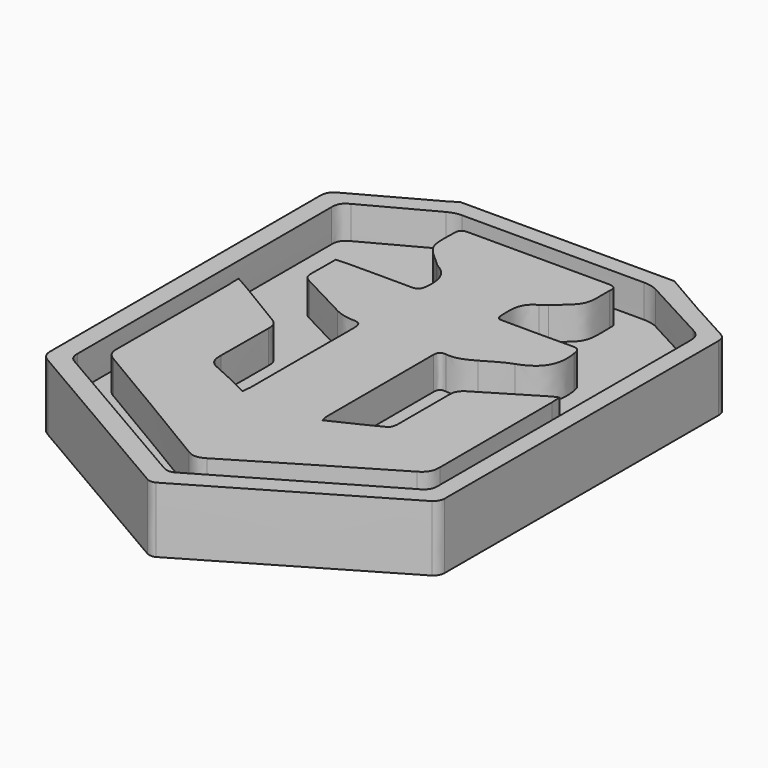
from build123d import *

# Parameters (mm, degrees)
EXTRUDE001_DEPTH = 5
EXTRUDE002_DEPTH = 12
EXTRUDE003_DEPTH = 10
EXTRUDE_DEPTH    = 10


with BuildPart() as extrude001:
    # Path002 → Extrude001 (new body)
    with BuildSketch(Plane(origin=(119.083667, -82.236467, 0), x_dir=(0, 1, 0), z_dir=(0, 0, 1))):
        with BuildLine():
            add(Edge.make_bspline(
                [(4.399578, -27.417889), (12.386467, -27.417889), (20.373356, -27.389667), (28.388467, -27.446111)],
                knots=[0, 0, 0, 0, 1, 1, 1, 1], degree=3))
            add(Edge.make_bspline(
                [(28.388467, -27.446111), (29.602023, -27.446111), (30.251134, -27.051), (30.787356, -26.006778)],
                knots=[0, 0, 0, 0, 1, 1, 1, 1], degree=3))
            add(Edge.make_bspline(
                [(30.787356, -26.006778), (32.537134, -22.620111), (34.428023, -19.318111), (36.206023, -15.959667)],
                knots=[0, 0, 0, 0, 1, 1, 1, 1], degree=3))
            add(Edge.make_bspline(
                [(36.206023, -15.959667), (36.544689, -15.338778), (36.714023, -14.548556), (36.714023, -13.814778)],
                knots=[0, 0, 0, 0, 1, 1, 1, 1], degree=3))
            add(Edge.make_bspline(
                [(36.714023, -13.814778), (36.742245, -4.557889), (36.742245, 4.699), (36.714023, 13.984111)],
                knots=[0, 0, 0, 0, 1, 1, 1, 1], degree=3))
            add(Edge.make_bspline(
                [(36.714023, 13.984111), (36.714023, 14.661444), (36.516467, 15.395222), (36.206023, 15.987889)],
                knots=[0, 0, 0, 0, 1, 1, 1, 1], degree=3))
            add(Edge.make_bspline(
                [(36.206023, 15.987889), (34.3998, 19.402778), (32.508911, 22.761222), (30.730911, 26.176111)],
                knots=[0, 0, 0, 0, 1, 1, 1, 1], degree=3))
            add(Edge.make_bspline(
                [(30.730911, 26.176111), (30.251134, 27.079222), (29.714911, 27.446111), (28.670689, 27.446111)],
                knots=[0, 0, 0, 0, 1, 1, 1, 1], degree=3))
            add(Edge.make_bspline(
                [(28.670689, 27.446111), (12.499356, 27.417889), (-3.671977, 27.417889), (-19.843311, 27.446111)],
                knots=[0, 0, 0, 0, 1, 1, 1, 1], degree=3))
            add(Edge.make_bspline(
                [(-19.843311, 27.446111), (-20.689977, 27.446111), (-21.197977, 27.163889), (-21.621311, 26.401889)],
                knots=[0, 0, 0, 0, 1, 1, 1, 1], degree=3))
            add(Edge.make_bspline(
                [(-21.621311, 26.401889), (-26.503755, 17.935222), (-31.414422, 9.468556), (-36.353311, 1.030111)],
                knots=[0, 0, 0, 0, 1, 1, 1, 1], degree=3))
            add(Edge.make_bspline(
                [(-36.353311, 1.030111), (-36.804866, 0.268111), (-36.776644, -0.268111), (-36.325089, -1.001889)],
                knots=[0, 0, 0, 0, 1, 1, 1, 1], degree=3))
            add(Edge.make_bspline(
                [(-36.325089, -1.001889), (-31.414422, -9.383889), (-26.503755, -17.794111), (-21.649533, -26.232556)],
                knots=[0, 0, 0, 0, 1, 1, 1, 1], degree=3))
            add(Edge.make_bspline(
                [(-21.649533, -26.232556), (-21.113311, -27.135667), (-20.548866, -27.446111), (-19.532866, -27.417889)],
                knots=[0, 0, 0, 0, 1, 1, 1, 1], degree=3))
            add(Edge.make_bspline(
                [(-19.532866, -27.417889), (-11.5742, -27.389667), (-3.587311, -27.417889), (4.399578, -27.417889)],
                knots=[0, 0, 0, 0, 1, 1, 1, 1], degree=3))
        make_face()
    extrude(amount=EXTRUDE001_DEPTH)


with BuildPart() as extrude002:
    # Path002 → Extrude002 (new body)
    with BuildSketch(Plane(origin=(119.083667, -82.236467, 0), x_dir=(0, 1, 0), z_dir=(0, 0, 1))):
        with BuildLine():
            add(Edge.make_bspline(
                [(4.399578, -27.417889), (12.386467, -27.417889), (20.373356, -27.389667), (28.388467, -27.446111)],
                knots=[0, 0, 0, 0, 1, 1, 1, 1], degree=3))
            add(Edge.make_bspline(
                [(28.388467, -27.446111), (29.602023, -27.446111), (30.251134, -27.051), (30.787356, -26.006778)],
                knots=[0, 0, 0, 0, 1, 1, 1, 1], degree=3))
            add(Edge.make_bspline(
                [(30.787356, -26.006778), (32.537134, -22.620111), (34.428023, -19.318111), (36.206023, -15.959667)],
                knots=[0, 0, 0, 0, 1, 1, 1, 1], degree=3))
            add(Edge.make_bspline(
                [(36.206023, -15.959667), (36.544689, -15.338778), (36.714023, -14.548556), (36.714023, -13.814778)],
                knots=[0, 0, 0, 0, 1, 1, 1, 1], degree=3))
            add(Edge.make_bspline(
                [(36.714023, -13.814778), (36.742245, -4.557889), (36.742245, 4.699), (36.714023, 13.984111)],
                knots=[0, 0, 0, 0, 1, 1, 1, 1], degree=3))
            add(Edge.make_bspline(
                [(36.714023, 13.984111), (36.714023, 14.661444), (36.516467, 15.395222), (36.206023, 15.987889)],
                knots=[0, 0, 0, 0, 1, 1, 1, 1], degree=3))
            add(Edge.make_bspline(
                [(36.206023, 15.987889), (34.3998, 19.402778), (32.508911, 22.761222), (30.730911, 26.176111)],
                knots=[0, 0, 0, 0, 1, 1, 1, 1], degree=3))
            add(Edge.make_bspline(
                [(30.730911, 26.176111), (30.251134, 27.079222), (29.714911, 27.446111), (28.670689, 27.446111)],
                knots=[0, 0, 0, 0, 1, 1, 1, 1], degree=3))
            add(Edge.make_bspline(
                [(28.670689, 27.446111), (12.499356, 27.417889), (-3.671977, 27.417889), (-19.843311, 27.446111)],
                knots=[0, 0, 0, 0, 1, 1, 1, 1], degree=3))
            add(Edge.make_bspline(
                [(-19.843311, 27.446111), (-20.689977, 27.446111), (-21.197977, 27.163889), (-21.621311, 26.401889)],
                knots=[0, 0, 0, 0, 1, 1, 1, 1], degree=3))
            add(Edge.make_bspline(
                [(-21.621311, 26.401889), (-26.503755, 17.935222), (-31.414422, 9.468556), (-36.353311, 1.030111)],
                knots=[0, 0, 0, 0, 1, 1, 1, 1], degree=3))
            add(Edge.make_bspline(
                [(-36.353311, 1.030111), (-36.804866, 0.268111), (-36.776644, -0.268111), (-36.325089, -1.001889)],
                knots=[0, 0, 0, 0, 1, 1, 1, 1], degree=3))
            add(Edge.make_bspline(
                [(-36.325089, -1.001889), (-31.414422, -9.383889), (-26.503755, -17.794111), (-21.649533, -26.232556)],
                knots=[0, 0, 0, 0, 1, 1, 1, 1], degree=3))
            add(Edge.make_bspline(
                [(-21.649533, -26.232556), (-21.113311, -27.135667), (-20.548866, -27.446111), (-19.532866, -27.417889)],
                knots=[0, 0, 0, 0, 1, 1, 1, 1], degree=3))
            add(Edge.make_bspline(
                [(-19.532866, -27.417889), (-11.5742, -27.389667), (-3.587311, -27.417889), (4.399578, -27.417889)],
                knots=[0, 0, 0, 0, 1, 1, 1, 1], degree=3))
        make_face()
    extrude(amount=EXTRUDE002_DEPTH)


with BuildPart() as extrude002_1:
    # Extrude002 placement: moved
    add(extrude002.part.moved(Location((0, 0, 5))))


with BuildPart() as cut:
    # Path001 → Extrude003 (new body)
    with BuildSketch(Plane(origin=(118.970778, -82.657775, 0), x_dir=(0, -1, 0), z_dir=(0, 0, -1))):
        with BuildLine():
            add(Edge.make_bspline(
                [(-39.67533, -16.495889), (-38.40533, -18.669), (-37.13533, -20.842111), (-35.893552, -23.043444)],
                knots=[0, 0, 0, 0, 1, 1, 1, 1], degree=3))
            add(Edge.make_bspline(
                [(-35.893552, -23.043444), (-34.736441, -25.075444), (-33.607552, -27.163889), (-32.506886, -29.224111)],
                knots=[0, 0, 0, 0, 1, 1, 1, 1], degree=3))
            add(Edge.make_bspline(
                [(-32.506886, -29.224111), (-32.139997, -29.901444), (-31.744886, -30.240111), (-30.898219, -30.240111)],
                knots=[0, 0, 0, 0, 1, 1, 1, 1], degree=3))
            add(Edge.make_bspline(
                [(-30.898219, -30.240111), (-13.51333, -30.211889), (3.899781, -30.211889), (21.28467, -30.183667)],
                knots=[0, 0, 0, 0, 1, 1, 1, 1], degree=3))
            add(Edge.make_bspline(
                [(21.28467, -30.183667), (21.764448, -30.183667), (22.470003, -29.816778), (22.695781, -29.421667)],
                knots=[0, 0, 0, 0, 1, 1, 1, 1], degree=3))
            add(Edge.make_bspline(
                [(22.695781, -29.421667), (28.340225, -19.882556), (33.956448, -10.287), (39.516225, -0.719667)],
                knots=[0, 0, 0, 0, 1, 1, 1, 1], degree=3))
            add(Edge.make_bspline(
                [(39.516225, -0.719667), (39.713781, -0.381), (39.657337, 0.268111), (39.459781, 0.606778)],
                knots=[0, 0, 0, 0, 1, 1, 1, 1], degree=3))
            add(Edge.make_bspline(
                [(39.459781, 0.606778), (33.956448, 10.089444), (28.424892, 19.515667), (22.921559, 28.998333)],
                knots=[0, 0, 0, 0, 1, 1, 1, 1], degree=3))
            add(Edge.make_bspline(
                [(22.921559, 28.998333), (22.413559, 29.873222), (21.905559, 30.240111), (20.861337, 30.240111)],
                knots=[0, 0, 0, 0, 1, 1, 1, 1], degree=3))
            add(Edge.make_bspline(
                [(20.861337, 30.240111), (3.75867, 30.211889), (-13.372219, 30.211889), (-30.474886, 30.240111)],
                knots=[0, 0, 0, 0, 1, 1, 1, 1], degree=3))
            add(Edge.make_bspline(
                [(-30.474886, 30.240111), (-31.519108, 30.240111), (-32.05533, 29.873222), (-32.535108, 28.970111)],
                knots=[0, 0, 0, 0, 1, 1, 1, 1], degree=3))
            add(Edge.make_bspline(
                [(-32.535108, 28.970111), (-34.623552, 25.075444), (-36.768441, 21.209), (-38.91333, 17.342556)],
                knots=[0, 0, 0, 0, 1, 1, 1, 1], degree=3))
            add(Edge.make_bspline(
                [(-38.91333, 17.342556), (-39.139108, 16.947444), (-39.42133, 16.580556), (-39.67533, 16.185444)],
                knots=[0, 0, 0, 0, 1, 1, 1, 1], degree=3))
            add(Edge.make_bspline(
                [(-39.67533, 16.185444), (-39.67533, 5.319889), (-39.67533, -5.573889), (-39.67533, -16.495889)],
                knots=[0, 0, 0, 0, 1, 1, 1, 1], degree=3))
        make_face()
    extrude(amount=-EXTRUDE003_DEPTH)

    # Cut: cut Extrude002
    add(extrude002_1.part, mode=Mode.SUBTRACT)


with BuildPart() as fusion:
    # Path005 → Extrude (new body)
    with BuildSketch(Plane(origin=(119.097778, -81.254672, 0), x_dir=(0, -1, 0), z_dir=(0, 0, -1))):
        with BuildLine():
            add(Edge.make_bspline(
                [(-6.352894, 24.581556), (-5.78845, 23.593778), (-5.393338, 22.86), (-4.970005, 22.154444)],
                knots=[0, 0, 0, 0, 1, 1, 1, 1], degree=3))
            add(Edge.make_bspline(
                [(-4.970005, 22.154444), (-3.50245, 19.727333), (-2.034894, 17.356667), (-0.595561, 14.901333)],
                knots=[0, 0, 0, 0, 1, 1, 1, 1], degree=3))
            add(Edge.make_bspline(
                [(-0.595561, 14.901333), (-0.115783, 14.054667), (0.476884, 13.744222), (1.436439, 13.772444)],
                knots=[0, 0, 0, 0, 1, 1, 1, 1], degree=3))
            add(Edge.make_bspline(
                [(1.436439, 13.772444), (4.456217, 13.828889), (7.447773, 13.716), (10.46755, 13.828889)],
                knots=[0, 0, 0, 0, 1, 1, 1, 1], degree=3))
            add(Edge.make_bspline(
                [(10.46755, 13.828889), (11.822217, 13.885333), (12.612439, 13.490222), (13.148662, 12.192)],
                knots=[0, 0, 0, 0, 1, 1, 1, 1], degree=3))
            add(Edge.make_bspline(
                [(13.148662, 12.192), (13.967106, 10.16), (15.011328, 8.212667), (16.05555, 6.039556)],
                knots=[0, 0, 0, 0, 1, 1, 1, 1], degree=3))
            add(Edge.make_bspline(
                [(16.05555, 6.039556), (15.406439, 5.983111), (14.954884, 5.926667), (14.503328, 5.926667)],
                knots=[0, 0, 0, 0, 1, 1, 1, 1], degree=3))
            add(Edge.make_bspline(
                [(14.503328, 5.926667), (8.012217, 5.926667), (1.521106, 5.926667), (-4.970005, 5.898444)],
                knots=[0, 0, 0, 0, 1, 1, 1, 1], degree=3))
            add(Edge.make_bspline(
                [(-4.970005, 5.898444), (-6.098894, 5.898444), (-6.522227, 6.152444), (-6.522227, 7.366)],
                knots=[0, 0, 0, 0, 1, 1, 1, 1], degree=3))
            add(Edge.make_bspline(
                [(-6.522227, 7.366), (-6.522227, 8.297333), (-6.80445, 9.313333), (-7.227783, 10.16)],
                knots=[0, 0, 0, 0, 1, 1, 1, 1], degree=3))
            add(Edge.make_bspline(
                [(-7.227783, 10.16), (-8.469561, 12.7), (-9.880672, 15.127111), (-11.150672, 17.638889)],
                knots=[0, 0, 0, 0, 1, 1, 1, 1], degree=3))
            add(Edge.make_bspline(
                [(-11.150672, 17.638889), (-11.517561, 18.372667), (-11.969116, 18.654889), (-12.787561, 18.626667)],
                knots=[0, 0, 0, 0, 1, 1, 1, 1], degree=3))
            add(Edge.make_bspline(
                [(-12.787561, 18.626667), (-14.283338, 18.570222), (-15.779116, 18.598444), (-17.387783, 18.598444)],
                knots=[0, 0, 0, 0, 1, 1, 1, 1], degree=3))
            add(Edge.make_bspline(
                [(-17.387783, 18.598444), (-17.416005, 18.005778), (-17.47245, 17.554222), (-17.47245, 17.074444)],
                knots=[0, 0, 0, 0, 1, 1, 1, 1], degree=3))
            add(Edge.make_bspline(
                [(-17.47245, 17.074444), (-17.47245, 13.772444), (-17.528894, 10.498667), (-17.47245, 7.196667)],
                knots=[0, 0, 0, 0, 1, 1, 1, 1], degree=3))
            add(Edge.make_bspline(
                [(-17.47245, 7.196667), (-17.444227, 6.124222), (-17.867561, 5.926667), (-18.855338, 5.813778)],
                knots=[0, 0, 0, 0, 1, 1, 1, 1], degree=3))
            add(Edge.make_bspline(
                [(-18.855338, 5.813778), (-20.972005, 5.616222), (-22.637116, 6.096), (-23.709561, 8.043333)],
                knots=[0, 0, 0, 0, 1, 1, 1, 1], degree=3))
            add(Edge.make_bspline(
                [(-23.709561, 8.043333), (-23.850672, 8.297333), (-24.07645, 8.494889), (-24.245783, 8.692444)],
                knots=[0, 0, 0, 0, 1, 1, 1, 1], degree=3))
            add(Edge.make_bspline(
                [(-24.245783, 8.692444), (-27.152672, 12.050889), (-27.152672, 12.022667), (-31.611783, 11.881556)],
                knots=[0, 0, 0, 0, 1, 1, 1, 1], degree=3))
            add(Edge.make_bspline(
                [(-31.611783, 11.881556), (-32.486672, 11.853333), (-32.768894, 11.542889), (-32.768894, 10.724444)],
                knots=[0, 0, 0, 0, 1, 1, 1, 1], degree=3))
            add(Edge.make_bspline(
                [(-32.768894, 10.724444), (-32.740672, 3.584222), (-32.740672, -3.584222), (-32.768894, -10.724444)],
                knots=[0, 0, 0, 0, 1, 1, 1, 1], degree=3))
            add(Edge.make_bspline(
                [(-32.768894, -10.724444), (-32.768894, -11.542889), (-32.514894, -11.994444), (-31.640005, -11.881556)],
                knots=[0, 0, 0, 0, 1, 1, 1, 1], degree=3))
            add(Edge.make_bspline(
                [(-31.640005, -11.881556), (-31.583561, -11.881556), (-31.555338, -11.881556), (-31.498894, -11.881556)],
                knots=[0, 0, 0, 0, 1, 1, 1, 1], degree=3))
            add(Edge.make_bspline(
                [(-31.498894, -11.881556), (-27.011561, -11.994444), (-27.011561, -11.994444), (-24.104672, -8.494889)],
                knots=[0, 0, 0, 0, 1, 1, 1, 1], degree=3))
            add(Edge.make_bspline(
                [(-24.104672, -8.494889), (-23.850672, -8.212667), (-23.56845, -7.958667), (-23.399116, -7.62)],
                knots=[0, 0, 0, 0, 1, 1, 1, 1], degree=3))
            add(Edge.make_bspline(
                [(-23.399116, -7.62), (-22.270227, -5.475111), (-20.26645, -5.729111), (-18.347338, -5.813778)],
                knots=[0, 0, 0, 0, 1, 1, 1, 1], degree=3))
            add(Edge.make_bspline(
                [(-18.347338, -5.813778), (-17.416005, -5.842), (-17.528894, -6.519333), (-17.528894, -7.140222)],
                knots=[0, 0, 0, 0, 1, 1, 1, 1], degree=3))
            add(Edge.make_bspline(
                [(-17.528894, -7.140222), (-17.528894, -10.526889), (-17.500672, -13.913556), (-17.557116, -17.300222)],
                knots=[0, 0, 0, 0, 1, 1, 1, 1], degree=3))
            add(Edge.make_bspline(
                [(-17.557116, -17.300222), (-17.585338, -18.344444), (-17.21845, -18.542), (-16.20245, -18.711333)],
                knots=[0, 0, 0, 0, 1, 1, 1, 1], degree=3))
            add(Edge.make_bspline(
                [(-16.20245, -18.711333), (-12.872227, -19.275778), (-10.812005, -18.090444), (-9.711338, -14.873111)],
                knots=[0, 0, 0, 0, 1, 1, 1, 1], degree=3))
            add(Edge.make_bspline(
                [(-9.711338, -14.873111), (-9.231561, -13.462), (-8.356672, -12.192), (-7.622894, -10.893778)],
                knots=[0, 0, 0, 0, 1, 1, 1, 1], degree=3))
            add(Edge.make_bspline(
                [(-7.622894, -10.893778), (-6.917338, -9.652), (-6.324672, -8.410222), (-6.522227, -6.914444)],
                knots=[0, 0, 0, 0, 1, 1, 1, 1], degree=3))
            add(Edge.make_bspline(
                [(-6.522227, -6.914444), (-6.635116, -6.152444), (-6.29645, -5.813778), (-5.478005, -5.813778)],
                knots=[0, 0, 0, 0, 1, 1, 1, 1], degree=3))
            add(Edge.make_bspline(
                [(-5.478005, -5.813778), (1.295328, -5.842), (8.068662, -5.842), (14.841995, -5.842)],
                knots=[0, 0, 0, 0, 1, 1, 1, 1], degree=3))
            add(Edge.make_bspline(
                [(14.841995, -5.842), (15.152439, -5.842), (15.462884, -5.954889), (15.970884, -6.039556)],
                knots=[0, 0, 0, 0, 1, 1, 1, 1], degree=3))
            add(Edge.make_bspline(
                [(15.970884, -6.039556), (14.78555, -8.523111), (13.684884, -10.893778), (12.471328, -13.208)],
                knots=[0, 0, 0, 0, 1, 1, 1, 1], degree=3))
            add(Edge.make_bspline(
                [(12.471328, -13.208), (12.301995, -13.546667), (11.539995, -13.716), (11.031995, -13.716)],
                knots=[0, 0, 0, 0, 1, 1, 1, 1], degree=3))
            add(Edge.make_bspline(
                [(11.031995, -13.716), (7.842884, -13.744222), (4.62555, -13.744222), (1.436439, -13.716)],
                knots=[0, 0, 0, 0, 1, 1, 1, 1], degree=3))
            add(Edge.make_bspline(
                [(1.436439, -13.716), (0.420439, -13.687778), (-0.20045, -14.054667), (-0.70845, -14.957778)],
                knots=[0, 0, 0, 0, 1, 1, 1, 1], degree=3))
            add(Edge.make_bspline(
                [(-0.70845, -14.957778), (-2.345338, -17.751778), (-4.066894, -20.517556), (-5.732005, -23.283333)],
                knots=[0, 0, 0, 0, 1, 1, 1, 1], degree=3))
            add(Edge.make_bspline(
                [(-5.732005, -23.283333), (-5.929561, -23.593778), (-6.04245, -23.932444), (-6.29645, -24.440444)],
                knots=[0, 0, 0, 0, 1, 1, 1, 1], degree=3))
            add(Edge.make_bspline(
                [(-6.29645, -24.440444), (-5.675561, -24.468667), (-5.224005, -24.525111), (-4.77245, -24.525111)],
                knots=[0, 0, 0, 0, 1, 1, 1, 1], degree=3))
            add(Edge.make_bspline(
                [(-4.77245, -24.525111), (2.367773, -24.553333), (9.536217, -24.525111), (16.676439, -24.581556)],
                knots=[0, 0, 0, 0, 1, 1, 1, 1], degree=3))
            add(Edge.make_bspline(
                [(16.676439, -24.581556), (17.918217, -24.581556), (18.623773, -24.214667), (19.272884, -23.142222)],
                knots=[0, 0, 0, 0, 1, 1, 1, 1], degree=3))
            add(Edge.make_bspline(
                [(19.272884, -23.142222), (23.534439, -15.889111), (27.852439, -8.664222), (32.198662, -1.467556)],
                knots=[0, 0, 0, 0, 1, 1, 1, 1], degree=3))
            add(Edge.make_bspline(
                [(32.198662, -1.467556), (32.791328, -0.479778), (32.875995, 0.282222), (32.226884, 1.326444)],
                knots=[0, 0, 0, 0, 1, 1, 1, 1], degree=3))
            add(Edge.make_bspline(
                [(32.226884, 1.326444), (27.824217, 8.607778), (23.477995, 15.917333), (19.159995, 23.255111)],
                knots=[0, 0, 0, 0, 1, 1, 1, 1], degree=3))
            add(Edge.make_bspline(
                [(19.159995, 23.255111), (18.623773, 24.186444), (18.031106, 24.553333), (16.930439, 24.553333)],
                knots=[0, 0, 0, 0, 1, 1, 1, 1], degree=3))
            add(Edge.make_bspline(
                [(16.930439, 24.553333), (9.733773, 24.496889), (2.537106, 24.525111), (-4.659561, 24.525111)],
                knots=[0, 0, 0, 0, 1, 1, 1, 1], degree=3))
            add(Edge.make_bspline(
                [(-4.659561, 24.525111), (-5.02645, 24.581556), (-5.506227, 24.581556), (-6.352894, 24.581556)],
                knots=[0, 0, 0, 0, 1, 1, 1, 1], degree=3))
        make_face()
    extrude(amount=-EXTRUDE_DEPTH)

    # Fusion: union Cut
    add(cut.part)


solid = Compound([extrude001.part, fusion.part])
